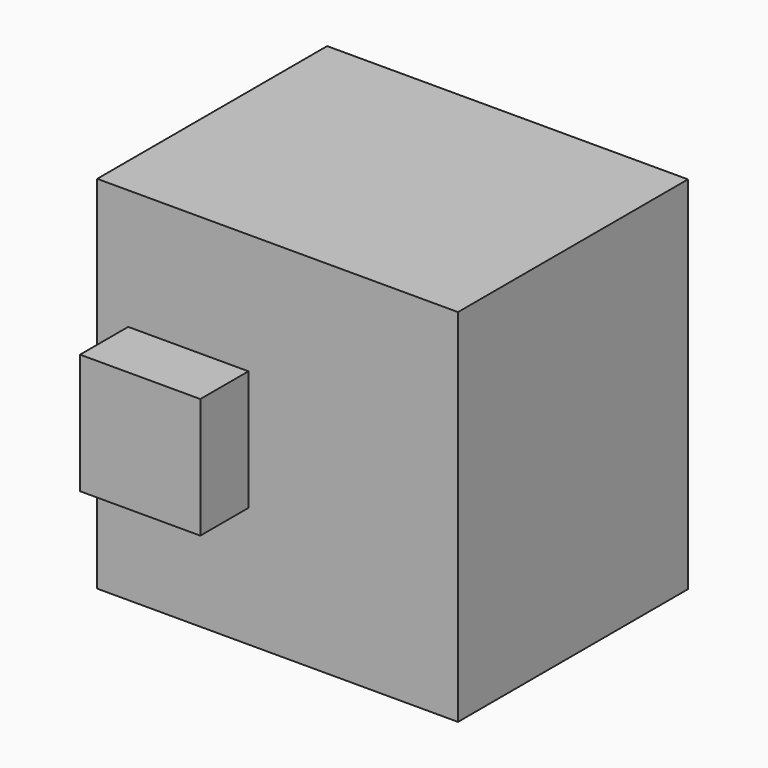
from build123d import *

# Parameters (mm, degrees)
F0_W      = 76.2
F0_H      = 76.2
F1_DEPTH  = 25.4
F1_FACE_W = 76.2
F1_FACE_H = 76.2
F2_DEPTH  = 35.306
F4_DEPTH  = 12.7


with BuildPart() as f1:
    # F0 (on Front) → F1 (new body)
    with BuildSketch(Plane.XZ):
        with Locations((-38.1, 41.869526)):
            Rectangle(F0_W, F0_H)
    extrude(amount=F1_DEPTH)

    # F0 (on Front) + F1_face (on face) → F2 (join)
    with BuildSketch(Plane.XZ):
        with Locations((-38.1, 41.869526)):
            Rectangle(F0_W, F0_H)
    with BuildSketch(Plane(origin=(-38.1, -25.4, 41.869526), x_dir=(1, 0, 0), z_dir=(0, -1, 0))):
        Rectangle(F1_FACE_W, F1_FACE_H)
        Rectangle(F1_FACE_W, F1_FACE_H)
    extrude(amount=F2_DEPTH)

    # F3 (on face) → F4 (join)
    with BuildSketch(Plane.XZ.offset(60.706)):
        Polygon((-44.259132, 29.169526), (-44.259132, 54.569526), (-56.959132, 54.569526), (-60.402479, 54.569526), (-69.659132, 54.569526), (-69.659132, 29.169526), align=None)
    extrude(amount=F4_DEPTH)


solid = f1.part
